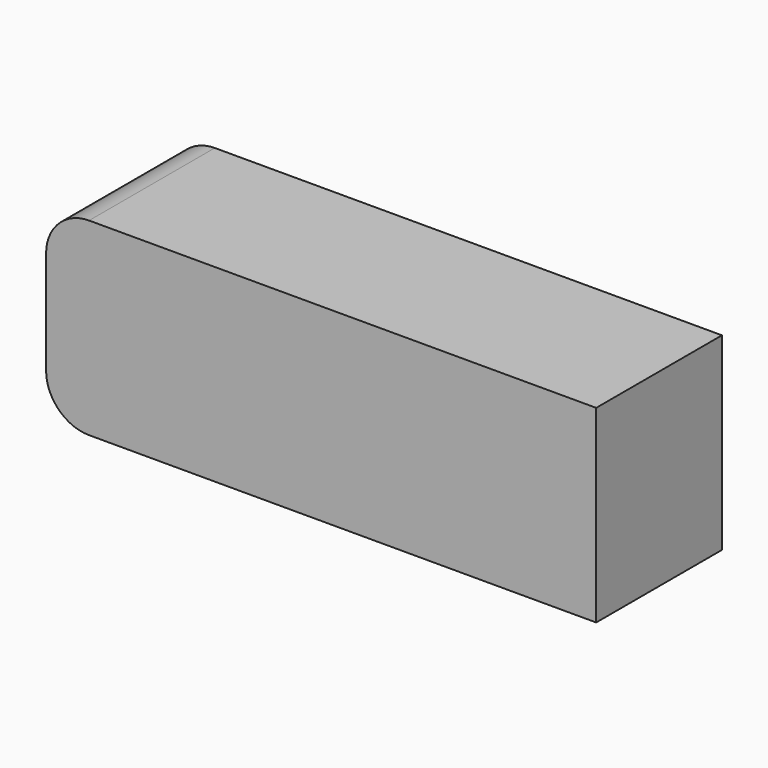
from build123d import *

# Parameters (mm, degrees)
F0_W     = 64.9986
F0_H     = 22.3266
F1_DEPTH = 18.5674
F2_R     = 5.08


with BuildPart() as f1:
    # F0 (on Front) → F1 (new body)
    with BuildSketch(Plane.XZ):
        Rectangle(F0_W, F0_H)
    extrude(amount=F1_DEPTH)

    # F2
    f2_edges = [f1.edges().sort_by_distance(p)[0] for p in [
        (-32.4993, -9.2837, 11.1633),
        (-32.4993, -9.2837, -11.1633),
    ]]
    fillet(f2_edges, radius=F2_R)


solid = f1.part
